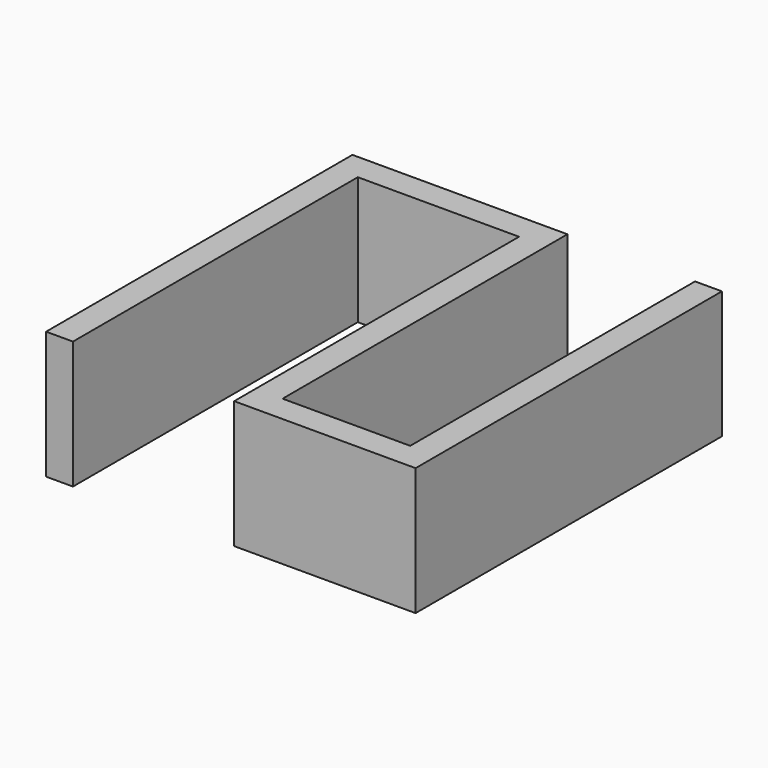
from build123d import *

# Parameters (mm, degrees)
PAD_DEPTH = 19


with BuildPart() as part:
    # Sketch → Pad (new body)
    with BuildSketch(Plane.XY):
        Polygon((0, 0), (0, 53), (24, 53), (24, 0), (51, 0), (51, 57), (47, 57), (47, 4), (28, 4), (28, 57), (-4, 57), (-4, 0), align=None)
    extrude(amount=PAD_DEPTH)


solid = part.part
